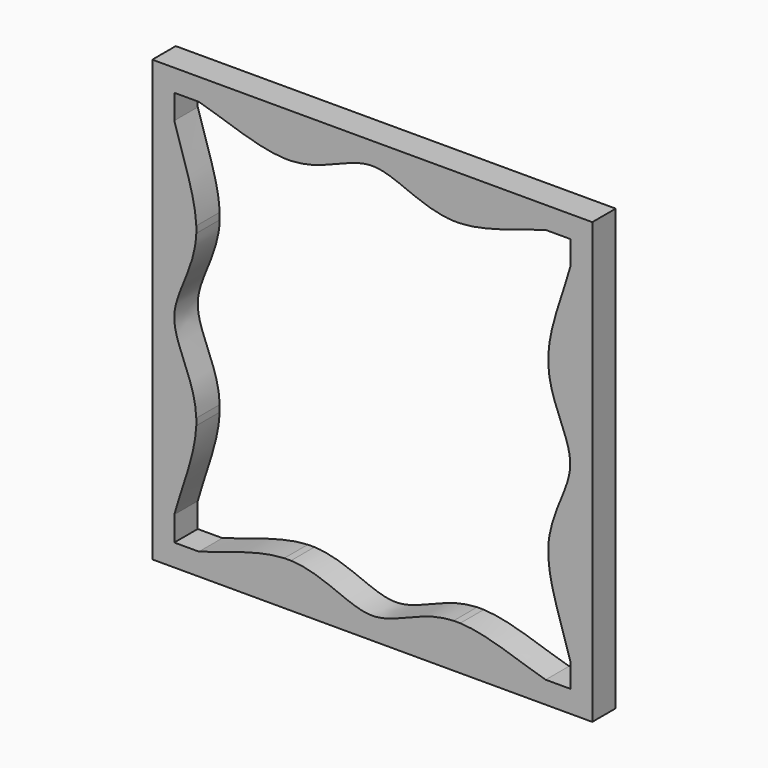
from build123d import *

# Parameters (mm, degrees)
F0_W     = 60
F0_H     = 60
F1_DEPTH = 4
F3_DEPTH = 4


with BuildPart() as f1:
    # F0 (on Front) → F1 (new body)
    with BuildSketch(Plane.XZ):
        Rectangle(F0_W, F0_H)
    extrude(amount=F1_DEPTH)

    # F2 (on face) → F3 (cut)
    with BuildSketch(Plane.XZ.offset(4)):
        with BuildLine():
            Line((-24, 24), (-24, 12))
            add(Edge.make_bspline(
                [(-24, 11.0916663679), (-23.9885126385, 11.3886601328), (-23.9880237808, 11.6913162711), (-24, 12)],
                knots=[0.930597722, 0.930597722, 0.930597722, 0.930597722, 0.9341837176, 0.9341837176, 0.9341837176, 0.9341837176], degree=3))
            Line((-24, 11.0916663679), (-24, 0))
            Line((-24, 0), (-24, -11.0916663679))
            add(Edge.make_bspline(
                [(-24, -12), (-23.9880237808, -11.6913162711), (-23.9885126385, -11.3886601328), (-24, -11.0916663679)],
                knots=[0.8158162824, 0.8158162824, 0.8158162824, 0.8158162824, 0.819402278, 0.819402278, 0.819402278, 0.819402278], degree=3))
            Line((-24, -12), (-24, -24))
            Line((-24, -24), (-12, -24))
            add(Edge.make_bspline(
                [(-11.0916663679, -24), (-11.3886601328, -23.9885126385), (-11.6913162711, -23.9880237808), (-12, -24)],
                knots=[0.680597722, 0.680597722, 0.680597722, 0.680597722, 0.6841837176, 0.6841837176, 0.6841837176, 0.6841837176], degree=3))
            Line((-11.0916663679, -24), (0, -24))
            Line((0, -24), (11.0916663679, -24))
            add(Edge.make_bspline(
                [(12, -24), (11.6913162711, -23.9880237808), (11.3886601328, -23.9885126385), (11.0916663679, -24)],
                knots=[0.5658162824, 0.5658162824, 0.5658162824, 0.5658162824, 0.569402278, 0.569402278, 0.569402278, 0.569402278], degree=3))
            Line((12, -24), (24, -24))
            Line((24, -24), (24, -12))
            add(Edge.make_bspline(
                [(24, -11.0916663679), (23.9885126385, -11.3886601328), (23.9880237808, -11.6913162711), (24, -12)],
                knots=[0.430597722, 0.430597722, 0.430597722, 0.430597722, 0.4341837176, 0.4341837176, 0.4341837176, 0.4341837176], degree=3))
            Line((24, -11.0916663679), (24, 0))
            Line((24, 0), (24, 11.0916663679))
            add(Edge.make_bspline(
                [(24, 12), (23.9880237808, 11.6913162711), (23.9885126385, 11.3886601328), (24, 11.0916663679)],
                knots=[0.3158162824, 0.3158162824, 0.3158162824, 0.3158162824, 0.319402278, 0.319402278, 0.319402278, 0.319402278], degree=3))
            Line((24, 12), (24, 24))
            Line((24, 24), (12, 24))
            add(Edge.make_bspline(
                [(11.0916663679, 24), (11.3886601328, 23.9885126385), (11.6913162711, 23.9880237808), (12, 24)],
                knots=[0.180597722, 0.180597722, 0.180597722, 0.180597722, 0.1841837176, 0.1841837176, 0.1841837176, 0.1841837176], degree=3))
            Line((11.0916663679, 24), (0, 24))
            Line((0, 24), (-11.0916663679, 24))
            add(Edge.make_bspline(
                [(-12, 24), (-11.6913162711, 23.9880237808), (-11.3886601328, 23.9885126385), (-11.0916663679, 24)],
                knots=[0.0658162824, 0.0658162824, 0.0658162824, 0.0658162824, 0.069402278, 0.069402278, 0.069402278, 0.069402278], degree=3))
            Line((-12, 24), (-24, 24))
        make_face()
        with BuildLine():
            Line((-23.6444065198, 27), (-27, 27))
            Line((-27, 27), (-27, 23.6444065198))
            add(Edge.make_bspline(
                [(-24, 12), (-24.1465778089, 15.7780023822), (-26.1603603507, 20.4589070033), (-27, 23.6444065198)],
                knots=[0.9341837176, 0.9341837176, 0.9341837176, 0.9341837176, 0.9780729754, 0.9780729754, 0.9780729754, 0.9780729754], degree=3))
            Line((-24, 12), (-24, 24))
            Line((-24, 24), (-12, 24))
            add(Edge.make_bspline(
                [(-23.6444065198, 27), (-20.4589070033, 26.1603603507), (-15.7780023822, 24.1465778089), (-12, 24)],
                knots=[0.0219270246, 0.0219270246, 0.0219270246, 0.0219270246, 0.0658162824, 0.0658162824, 0.0658162824, 0.0658162824], degree=3))
        make_face()
        with BuildLine():
            add(Edge.make_bspline(
                [(-2.98e-08, 27), (3.2435190013, 27.000000013), (6.4870380255, 24.1781014922), (11.0916663631, 24.0000000045)],
                knots=[0.125, 0.125, 0.125, 0.125, 0.180597722, 0.180597722, 0.180597722, 0.180597722], degree=3))
            add(Edge.make_bspline(
                [(-11.0916663679, 24), (-6.4870380342, 24.1781014842), (-3.243519032, 26.999999987), (-2.98e-08, 27)],
                knots=[0.069402278, 0.069402278, 0.069402278, 0.069402278, 0.125, 0.125, 0.125, 0.125], degree=3))
            Line((-11.0916663679, 24), (0, 24))
            Line((0, 24), (11.0916663679, 24))
        make_face()
        with BuildLine():
            Line((27, 27), (23.6444065198, 27))
            add(Edge.make_bspline(
                [(12, 24), (15.7780023822, 24.1465778089), (20.4589070033, 26.1603603507), (23.6444065198, 27)],
                knots=[0.1841837176, 0.1841837176, 0.1841837176, 0.1841837176, 0.2280729754, 0.2280729754, 0.2280729754, 0.2280729754], degree=3))
            Line((12, 24), (24, 24))
            Line((24, 24), (24, 12))
            add(Edge.make_bspline(
                [(27, 23.6444065198), (26.1603603507, 20.4589070033), (24.1465778089, 15.7780023822), (24, 12)],
                knots=[0.2719270246, 0.2719270246, 0.2719270246, 0.2719270246, 0.3158162824, 0.3158162824, 0.3158162824, 0.3158162824], degree=3))
            Line((27, 23.6444065198), (27, 27))
        make_face()
        with BuildLine():
            add(Edge.make_bspline(
                [(27, 0), (27, -3.2435190171), (24.1781014842, -6.4870380342), (24, -11.0916663679)],
                knots=[0.375, 0.375, 0.375, 0.375, 0.430597722, 0.430597722, 0.430597722, 0.430597722], degree=3))
            add(Edge.make_bspline(
                [(24, 11.0916663679), (24.1781014842, 6.4870380342), (27, 3.2435190171), (27, 0)],
                knots=[0.319402278, 0.319402278, 0.319402278, 0.319402278, 0.375, 0.375, 0.375, 0.375], degree=3))
            Line((24, 11.0916663679), (24, 0))
            Line((24, 0), (24, -11.0916663679))
        make_face()
        with BuildLine():
            add(Edge.make_bspline(
                [(23.6444065198, -27), (20.4589070033, -26.1603603507), (15.7780023822, -24.1465778089), (12, -24)],
                knots=[0.5219270246, 0.5219270246, 0.5219270246, 0.5219270246, 0.5658162824, 0.5658162824, 0.5658162824, 0.5658162824], degree=3))
            Line((23.6444065198, -27), (27, -27))
            Line((27, -27), (27, -23.6444065198))
            add(Edge.make_bspline(
                [(24, -12), (24.1465778089, -15.7780023822), (26.1603603507, -20.4589070033), (27, -23.6444065198)],
                knots=[0.4341837176, 0.4341837176, 0.4341837176, 0.4341837176, 0.4780729754, 0.4780729754, 0.4780729754, 0.4780729754], degree=3))
            Line((24, -12), (24, -24))
            Line((24, -24), (12, -24))
        make_face()
        with BuildLine():
            add(Edge.make_bspline(
                [(0, -27), (-3.2435190171, -27), (-6.4870380342, -24.1781014842), (-11.0916663679, -24)],
                knots=[0.625, 0.625, 0.625, 0.625, 0.680597722, 0.680597722, 0.680597722, 0.680597722], degree=3))
            add(Edge.make_bspline(
                [(11.0916663679, -24), (6.4870380342, -24.1781014842), (3.2435190171, -27), (0, -27)],
                knots=[0.569402278, 0.569402278, 0.569402278, 0.569402278, 0.625, 0.625, 0.625, 0.625], degree=3))
            Line((11.0916663679, -24), (0, -24))
            Line((0, -24), (-11.0916663679, -24))
        make_face()
        with BuildLine():
            add(Edge.make_bspline(
                [(-27, -23.6444065198), (-26.1603603507, -20.4589070033), (-24.1465778089, -15.7780023822), (-24, -12)],
                knots=[0.7719270246, 0.7719270246, 0.7719270246, 0.7719270246, 0.8158162824, 0.8158162824, 0.8158162824, 0.8158162824], degree=3))
            Line((-27, -23.6444065198), (-27, -27))
            Line((-27, -27), (-23.6444065198, -27))
            add(Edge.make_bspline(
                [(-12, -24), (-15.7780023822, -24.1465778089), (-20.4589070033, -26.1603603507), (-23.6444065198, -27)],
                knots=[0.6841837176, 0.6841837176, 0.6841837176, 0.6841837176, 0.7280729754, 0.7280729754, 0.7280729754, 0.7280729754], degree=3))
            Line((-12, -24), (-24, -24))
            Line((-24, -24), (-24, -12))
        make_face()
        with BuildLine():
            add(Edge.make_bspline(
                [(-27, 0), (-27, 3.2435190171), (-24.1781014842, 6.4870380342), (-24, 11.0916663679)],
                knots=[0.875, 0.875, 0.875, 0.875, 0.930597722, 0.930597722, 0.930597722, 0.930597722], degree=3))
            add(Edge.make_bspline(
                [(-24, -11.0916663679), (-24.1781014842, -6.4870380342), (-27, -3.2435190171), (-27, 0)],
                knots=[0.819402278, 0.819402278, 0.819402278, 0.819402278, 0.875, 0.875, 0.875, 0.875], degree=3))
            Line((-24, -11.0916663679), (-24, 0))
            Line((-24, 0), (-24, 11.0916663679))
        make_face()
    extrude(amount=-F3_DEPTH, mode=Mode.SUBTRACT)


solid = f1.part
